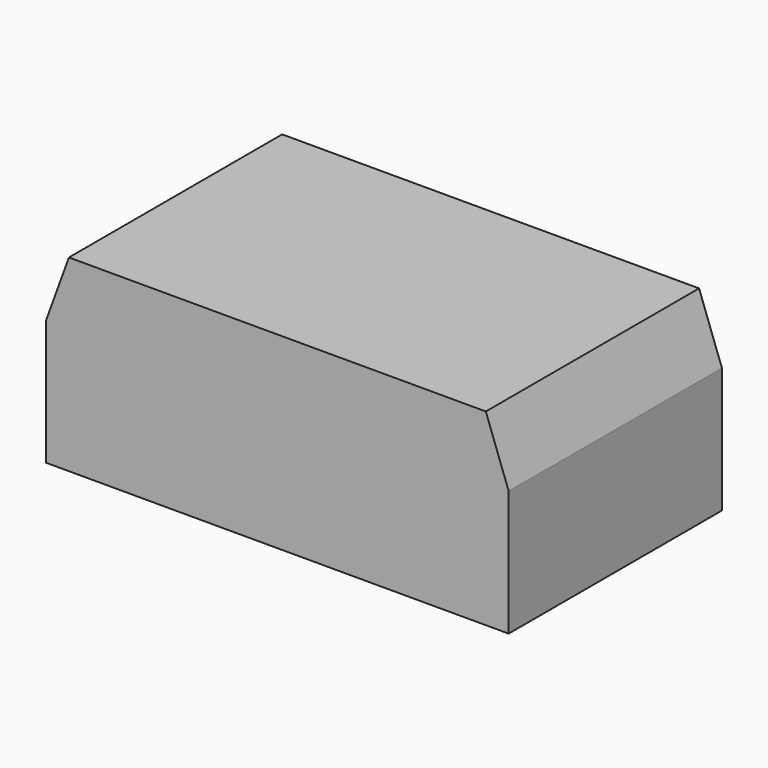
from build123d import *

# Parameters (mm, degrees)
F0_W     = 1498.6
F0_H     = 863.6
F1_DEPTH = 609.6
F2_SIZE2 = 73.958752
F2_SIZE  = 203.2


with BuildPart() as f1:
    # F0 (on Top) → F1 (new body)
    with BuildSketch(Plane.XY):
        Rectangle(F0_W, F0_H)
    extrude(amount=F1_DEPTH)

    # F2
    f2_edges = [f1.edges().sort_by_distance(p)[0] for p in [
        (-749.3, 0, 609.6),
        (749.3, 0, 609.6),
    ]]
    chamfer(f2_edges, length=F2_SIZE, length2=F2_SIZE2)


solid = f1.part
